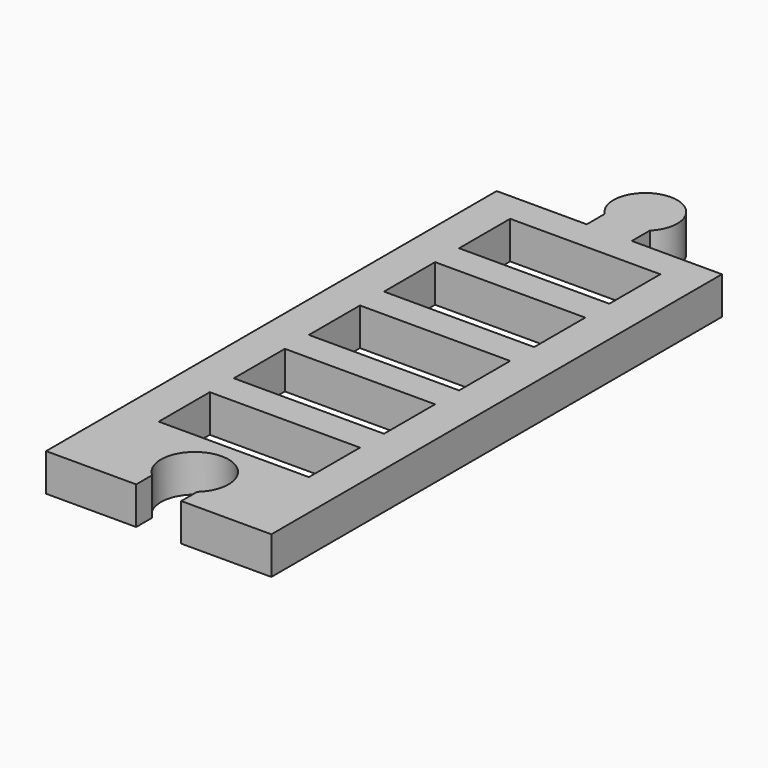
from build123d import *

# Parameters (mm, degrees)
F0_W     = 40
F0_H     = 17
F1_DEPTH = 10


with BuildPart() as f1:
    # F0 (on Top) → F1 (new body)
    with BuildSketch(Plane.XY):
        with BuildLine():
            Line((-6, 75), (-30, 75))
            Line((-30, 75), (-30, -75))
            Line((-30, -75), (-6, -75))
            Line((-6, -75), (-6, -69.708204))
            ThreePointArc((-6, -69.708204), (0, -54), (6, -69.708204))
            Line((6, -69.708204), (6, -75))
            Line((6, -75), (30, -75))
            Line((30, -75), (30, 75))
            Line((30, 75), (6, 75))
            Line((6, 75), (6, 80.979203))
            ThreePointArc((6, 80.979203), (0, 95.5), (-6, 80.979203))
            Line((-6, 80.979203), (-6, 75))
        make_face()
        with Locations((0, -41.5)):
            Rectangle(F0_W, F0_H, mode=Mode.SUBTRACT)
        with Locations((0, -16.5)):
            Rectangle(F0_W, F0_H, mode=Mode.SUBTRACT)
        with Locations((0, 8.5)):
            Rectangle(F0_W, F0_H, mode=Mode.SUBTRACT)
        with Locations((0, 33.5)):
            Rectangle(F0_W, F0_H, mode=Mode.SUBTRACT)
        with Locations((0, 58.5)):
            Rectangle(F0_W, F0_H, mode=Mode.SUBTRACT)
    extrude(amount=F1_DEPTH)


solid = f1.part
